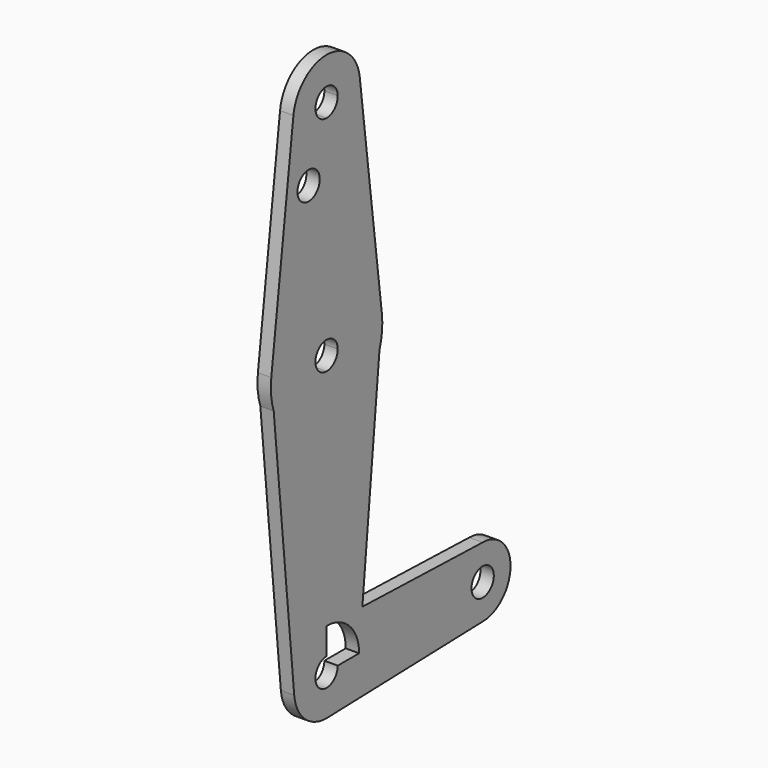
from build123d import *

# Parameters (mm, degrees)
F0_R     = 3.175
F1_DEPTH = 3.048


with BuildPart() as f1:
    # F0 (on Right) → F1 (new body)
    with BuildSketch(Plane.YZ):
        with BuildLine():
            ThreePointArc((0, 72.1900944854), (6.7351920908, 74.9799023946), (9.525, 81.7150944854))
            ThreePointArc((9.525, 81.7150944854), (9.5063048942, 82.3115777274), (9.4502929642, 82.9057194854))
            ThreePointArc((9.4502929642, 82.9057194854), (0, 91.2400944854), (-9.4502929642, 82.9057194854))
            ThreePointArc((-9.4502929642, 82.9057194854), (-7.14375, 75.4148991759), (0, 72.1900944854))
        make_face()
        with BuildLine():
            ThreePointArc((3.175, 81.7150944854), (2.2450640303, 79.4700304552), (0, 78.5400944854))
            ThreePointArc((0, 78.5400944854), (-2.2450640303, 83.9601585157), (3.175, 81.7150944854))
        make_face(mode=Mode.SUBTRACT)
        with BuildLine():
            ThreePointArc((9.4502929642, 82.9057194854), (9.5063048942, 82.3115777274), (9.525, 81.7150944854))
            ThreePointArc((9.525, 81.7150944854), (6.7351920908, 74.9799023946), (0, 72.1900944854))
            Line((0, 72.1900944854), (0, 46.7900944854))
            Line((0, 46.7900944854), (0, 34.0900944854))
            ThreePointArc((0, 34.0900944854), (2.2450640303, 33.1601585157), (3.175, 30.9150944854))
            ThreePointArc((3.175, 30.9150944854), (2.2450640303, 28.6700304552), (0, 27.7400944854))
            Line((0, 27.7400944854), (0, 15.0400944854))
            ThreePointArc((0, 15.0400944854), (9.2843476683, 18.0381183895), (15.0619619516, 25.899825084))
            Line((15.0619619516, 25.899825084), (15.7504882737, 32.8994694854))
            Line((15.7504882737, 32.8994694854), (9.4502929642, 82.9057194854))
        make_face()
        with BuildLine():
            Line((0, 46.7900944854), (0, 72.1900944854))
            ThreePointArc((0, 72.1900944854), (-7.14375, 75.4148991759), (-9.4502929642, 82.9057194854))
            Line((-9.4502929642, 82.9057194854), (-15.7504882737, 32.8994694854))
            ThreePointArc((-15.7504882737, 32.8994694854), (-10.5003255158, 42.8213444854), (0, 46.7900944854))
        make_face()
        with Locations((-5.1205755983, 67.0795790052)):
            Circle(F0_R, mode=Mode.SUBTRACT)
        with BuildLine():
            ThreePointArc((15.0619619516, 25.899825084), (15.7987508259, 29.3610361396), (15.7504882737, 32.8994694854))
            Line((15.7504882737, 32.8994694854), (15.0619619516, 25.899825084))
        make_face()
        with BuildLine():
            Line((0, 34.0900944854), (0, 46.7900944854))
            ThreePointArc((0, 46.7900944854), (-10.5003255158, 42.8213444854), (-15.7504882737, 32.8994694854))
            Line((-15.7504882737, 32.8994694854), (-15.0619619516, 25.899825084))
            ThreePointArc((-15.0619619516, 25.899825084), (-9.2843476683, 18.0381183895), (0, 15.0400944854))
            Line((0, 15.0400944854), (0, 27.7400944854))
            ThreePointArc((0, 27.7400944854), (-3.175, 30.9150944854), (0, 34.0900944854))
        make_face()
        with BuildLine():
            Line((-15.0619619516, 25.899825084), (-15.7504882737, 32.8994694854))
            ThreePointArc((-15.7504882737, 32.8994694854), (-15.7987508259, 29.3610361396), (-15.0619619516, 25.899825084))
        make_face()
        with BuildLine():
            Line((10.1907467619, -23.6215556334), (15.0619619516, 25.899825084))
            ThreePointArc((15.0619619516, 25.899825084), (9.2843476683, 18.0381183895), (0, 15.0400944854))
            Line((0, 15.0400944854), (0, -23.3164066483))
            Line((0, -23.3164066483), (0.2772849675, -23.3247095949))
            Line((0.2772849675, -23.3247095949), (10.1907467619, -23.6215556334))
        make_face()
        with BuildLine():
            ThreePointArc((0, 15.0400944854), (-9.2843476683, 18.0381183895), (-15.0619619516, 25.899825084))
            Line((-15.0619619516, 25.899825084), (-9.2198489049, -33.4918242511))
            ThreePointArc((-9.2198489049, -33.4918242511), (-6.8640412592, -26.3629240764), (0, -23.3205590496))
            Line((0, -23.3205590496), (0, -23.3164066483))
            Line((0, -23.3164066483), (0, 15.0400944854))
        make_face()
        with BuildLine():
            Line((44.45, -24.6474055146), (10.1907467619, -23.6215556334))
            Line((10.1907467619, -23.6215556334), (9.3090587828, -32.5849055146))
            Line((9.3090587828, -32.5849055146), (36.5125, -32.5849055146))
            ThreePointArc((36.5125, -32.5849055146), (38.8373399243, -26.9722454389), (44.45, -24.6474055146))
        make_face()
        with BuildLine():
            Line((9.3090587828, -32.5849055146), (10.1907467619, -23.6215556334))
            Line((10.1907467619, -23.6215556334), (0.2772849675, -23.3247095949))
            ThreePointArc((0.2772849675, -23.3247095949), (6.6481944704, -26.1328030892), (9.264346465, -32.5849055146))
            Line((9.264346465, -32.5849055146), (9.3090587828, -32.5849055146))
        make_face()
        with BuildLine():
            ThreePointArc((0, -23.3205590496), (-6.8640412592, -26.3629240764), (-9.2198489049, -33.4918242511))
            ThreePointArc((-9.2198489049, -33.4918242511), (-6.2219814381, -39.4489467737), (0, -41.8492519796))
            Line((0, -41.8492519796), (0.5511328595, -41.8328440954))
            ThreePointArc((0.5511328595, -41.8328440954), (6.742922259, -38.937945325), (9.264346465, -32.5849055146))
            Line((9.264346465, -32.5849055146), (3.175, -32.5849055146))
            ThreePointArc((3.175, -32.5849055146), (-2.2450640303, -34.8299695448), (0, -29.4099055146))
            Line((0, -29.4099055146), (0, -23.3205590496))
        make_face()
        with BuildLine():
            Line((36.5125, -32.5849055146), (9.3090587828, -32.5849055146))
            Line((9.3090587828, -32.5849055146), (9.264346465, -32.5849055146))
            ThreePointArc((9.264346465, -32.5849055146), (6.742922259, -38.937945325), (0.5511328595, -41.8328440954))
            Line((0.5511328595, -41.8328440954), (44.6862042117, -40.5188902524))
            ThreePointArc((44.6862042117, -40.5188902524), (38.9214814227, -38.2804641869), (36.5125, -32.5849055146))
        make_face()
        with BuildLine():
            ThreePointArc((52.3875, -32.5849055146), (50.0626600757, -26.9722454389), (44.45, -24.6474055146))
            ThreePointArc((44.45, -24.6474055146), (38.8373399243, -26.9722454389), (36.5125, -32.5849055146))
            ThreePointArc((36.5125, -32.5849055146), (38.9214814227, -38.2804641869), (44.6862042117, -40.5188902524))
            ThreePointArc((44.6862042117, -40.5188902524), (50.1455586723, -38.1134240919), (52.3875, -32.5849055146))
        make_face()
        with BuildLine():
            ThreePointArc((47.625, -32.5849055146), (44.45, -35.7599055146), (41.275, -32.5849055146))
            ThreePointArc((41.275, -32.5849055146), (44.45, -29.4099055146), (47.625, -32.5849055146))
        make_face(mode=Mode.SUBTRACT)
        with BuildLine():
            Line((0.5511328595, -41.8328440954), (0, -41.8492519796))
            ThreePointArc((0, -41.8492519796), (0.2756885233, -41.8451491), (0.5511328595, -41.8328440954))
        make_face()
    extrude(amount=F1_DEPTH)


solid = f1.part
